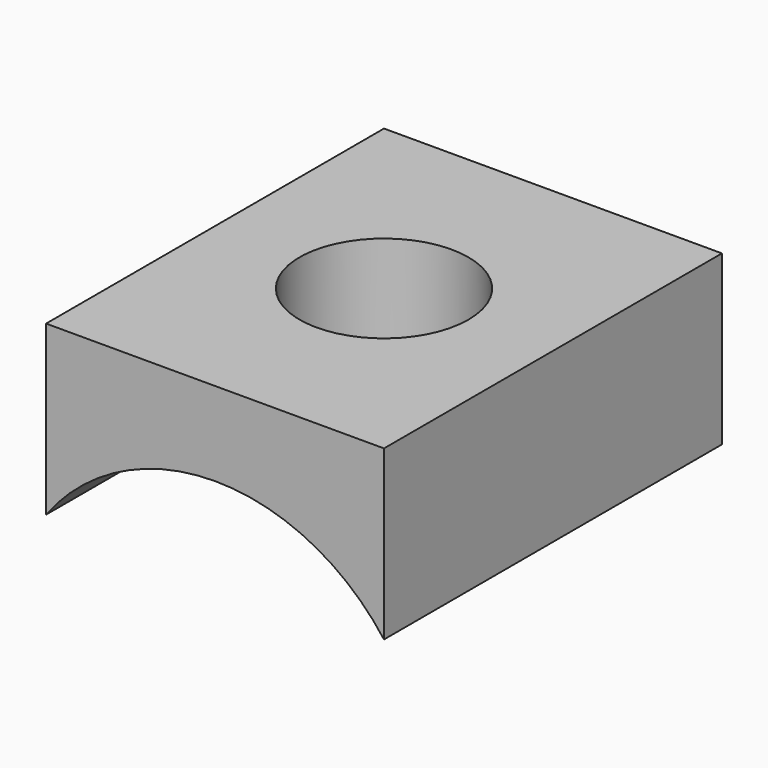
from build123d import *

# Parameters (mm, degrees)
F0_W     = 40
F0_H     = 20
F1_DEPTH = 50
F2_R     = 25
F3_DEPTH = 50.001
F4_R     = 10
F5_DEPTH = 19.913378


with BuildPart() as f1:
    # F0 (on Front) → F1 (new body)
    with BuildSketch(Plane.XZ):
        with Locations((0, 9.912378)):
            Rectangle(F0_W, F0_H)
    extrude(amount=F1_DEPTH)

    # F2 (on Front) → F3 (cut, through all)
    with BuildSketch(Plane.XZ):
        with Locations((0, -15)):
            Circle(F2_R)
    extrude(amount=F3_DEPTH, mode=Mode.SUBTRACT)

    # F4 (on Top) → F5 (cut, through all)
    with BuildSketch(Plane.XY):
        with Locations((0, -25)):
            Circle(F4_R)
    extrude(amount=F5_DEPTH, mode=Mode.SUBTRACT)


solid = f1.part
